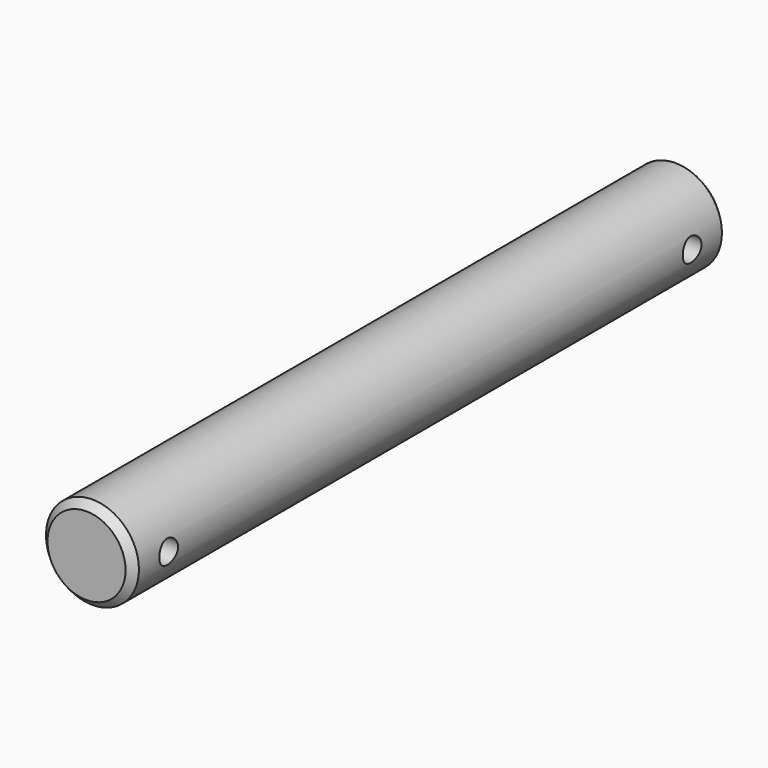
from build123d import *

# Parameters (mm, degrees)
F0_R     = 12.5
F1_DEPTH = 200
F2_R     = 3.15
F3_DEPTH = 65
F4_SIZE  = 2


with BuildPart() as f1:
    # F0 (on Front) → F1 (new body)
    with BuildSketch(Plane.XZ):
        Circle(F0_R)
    extrude(amount=F1_DEPTH)

    # F2 (on Right) → F3 (cut, symmetric)
    with BuildSketch(Plane.YZ):
        with Locations((-12, 0)):
            Circle(F2_R)
        with Locations((-188, 0)):
            Circle(F2_R)
    extrude(amount=F3_DEPTH, both=True, mode=Mode.SUBTRACT)

    # F4
    f4_edges = [f1.edges().sort_by_distance(p)[0] for p in [
        (-12.5, 0, 0),
        (-12.5, -200, 0),
    ]]
    chamfer(f4_edges, length=F4_SIZE)


solid = f1.part
